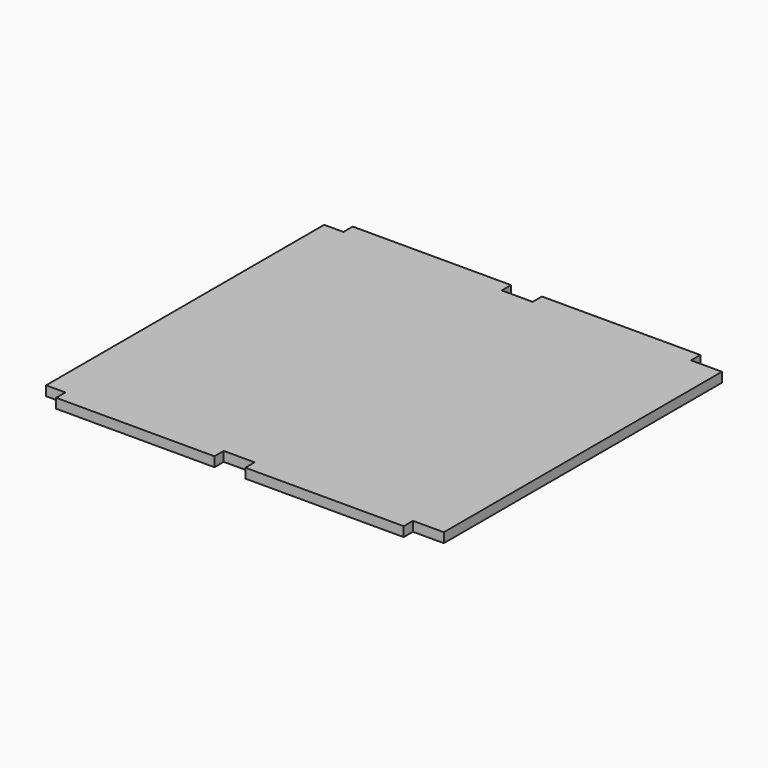
from build123d import *

# Parameters (mm, degrees)
F1_DEPTH = 15.875


with BuildPart() as f1:
    # F0 (on Top) → F1 (new body)
    with BuildSketch(Plane.XY):
        Polygon((-295.275, -285.75), (-295.275, -304.8), (-34.925, -304.8), (-34.925, -285.75), (15.875, -285.75), (15.875, -304.8), (276.225, -304.8), (276.225, -285.75), (327.025, -285.75), (327.025, 285.75), (276.225, 285.75), (276.225, 304.8), (15.875, 304.8), (15.875, 285.75), (-34.925, 285.75), (-34.925, 304.8), (-295.275, 304.8), (-295.275, 285.75), (-327.025, 285.75), (-327.025, -285.75), align=None)
    extrude(amount=F1_DEPTH)


solid = f1.part
